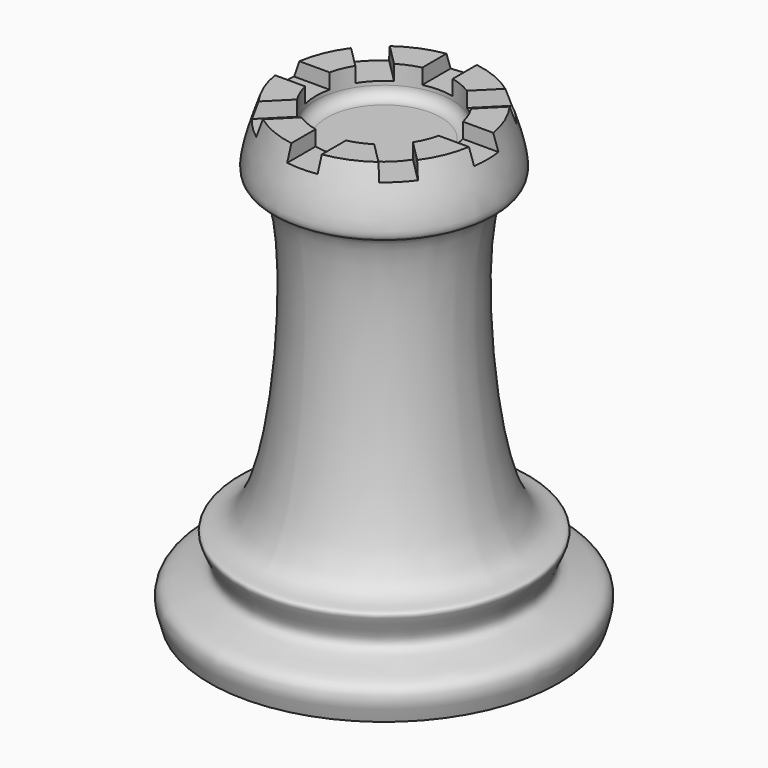
from build123d import *

# Parameters (mm, degrees)
F2_R     = 4.5
F3_DEPTH = 2
F5_DEPTH = 1
F6_R     = 0.75


with BuildPart() as f1:
    # F0 (on Front) → F1 (revolve)
    with BuildSketch(Plane.XZ):
        with BuildLine():
            Line((0, 29.8004541546), (0, 0))
            Line((0, 0), (11.4705134183, 0))
            add(Edge.make_bspline(
                [(11.4705134183, 0), (11.732875476, 0.8153426281), (12.3002087209, 2.5784339199), (7.7813398519, 2.5139627986), (10.3795413858, 5.785382592), (5.7516333208, 4.1896015586), (4.58393068, 26.1483576562), (7.9913187248, 25.2292024384), (7.0513523289, 28.0690694522), (6.4515948717, 29.8004541546)],
                knots=[0, 0, 0, 0, 0.1067103807, 0.2298458507, 0.3357124996, 0.4373357909, 0.7615161745, 0.8492516397, 1, 1, 1, 1], degree=3))
            Line((6.4515948717, 29.8004541546), (0, 29.8004541546))
        make_face()
    revolve(axis=Axis((0, 0, 14.9002270773), (0, 0, 1)))

    # F2 (on face) → F3 (cut)
    with BuildSketch(Plane.XY.offset(29.8004541546)):
        Circle(F2_R)
    extrude(amount=-F3_DEPTH, mode=Mode.SUBTRACT)

    # F4 (on face) → F5 (cut)
    with BuildSketch(Plane.XY.offset(29.8004541546)):
        Polygon((1, 7.5), (-1, 7.5), (-1, 2.4142135624), (0, 1.4142135624), (1, 2.4142135624), align=None)
        Polygon((0, 1.4142135624), (-1, 2.4142135624), (-1, 1), (-0.4142135624, 1), align=None)
        Polygon((-1, 1), (-1, 2.4142135624), (-4.5961940777, 6.0104076401), (-6.0104076401, 4.5961940777), (-2.4142135624, 1), align=None)
        Polygon((4.5961940777, 6.0104076401), (1, 2.4142135624), (1, 1), (2.4142135624, 1), (6.0104076401, 4.5961940777), align=None)
        Polygon((1, 1), (1, 2.4142135624), (0, 1.4142135624), (0.4142135624, 1), align=None)
        Polygon((-1, 0.4142135624), (-1, 1), (-2.4142135624, 1), (-1.4142135624, 0), align=None)
        Polygon((2.4142135624, 1), (1, 1), (1, 0.4142135624), (1.4142135624, 0), align=None)
        Polygon((-1.4142135624, 0), (-2.4142135624, 1), (-7.5, 1), (-7.5, -1), (-2.4142135624, -1), align=None)
        Polygon((7.5, 1), (2.4142135624, 1), (1.4142135624, 0), (2.4142135624, -1), (7.5, -1), align=None)
        Polygon((-1, -1), (-1, -0.4142135624), (-1.4142135624, 0), (-2.4142135624, -1), align=None)
        Polygon((1.4142135624, 0), (1, -0.4142135624), (1, -1), (2.4142135624, -1), align=None)
        Polygon((-0.4142135624, -1), (-1, -1), (-1, -2.4142135624), (0, -1.4142135624), align=None)
        Polygon((-1, -2.4142135624), (-1, -1), (-2.4142135624, -1), (-6.0104076401, -4.5961940777), (-4.5961940777, -6.0104076401), align=None)
        Polygon((2.4142135624, -1), (1, -1), (1, -2.4142135624), (4.5961940777, -6.0104076401), (6.0104076401, -4.5961940777), align=None)
        Polygon((1, -2.4142135624), (1, -1), (0.4142135624, -1), (0, -1.4142135624), align=None)
        Polygon((0, -1.4142135624), (-1, -2.4142135624), (-1, -7.5), (1, -7.5), (1, -2.4142135624), align=None)
    extrude(amount=-F5_DEPTH, mode=Mode.SUBTRACT)

    # F6
    f6_edges = [f1.edges().sort_by_distance(p)[0] for p in [
        (-4.5, 0, 27.800454),
    ]]
    fillet(f6_edges, radius=F6_R)


solid = f1.part
